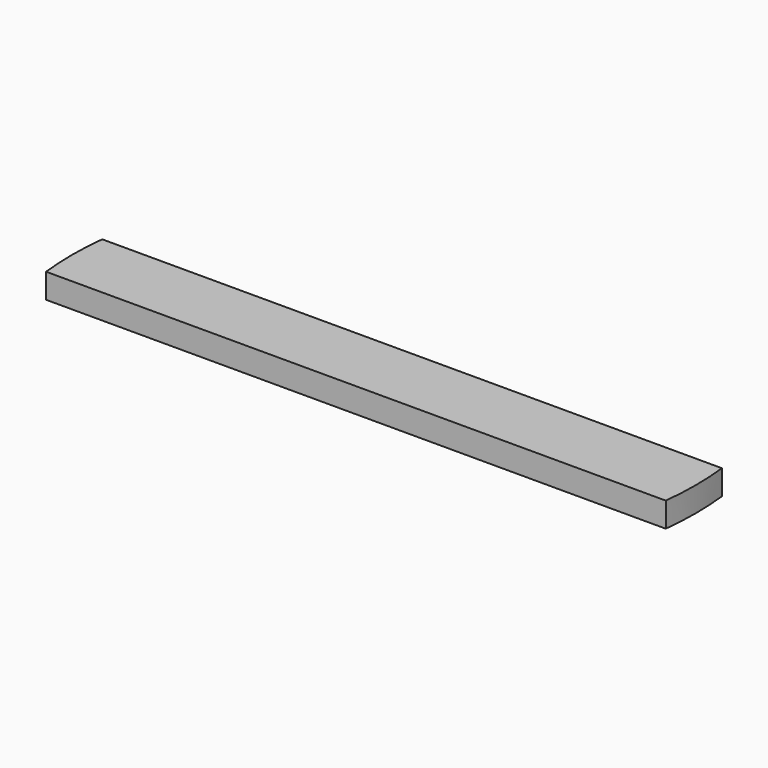
from build123d import *

# Parameters (mm, degrees)
F1_DEPTH = 6.35


with BuildPart() as f1:
    # F0 (on Top) → F1 (new body)
    with BuildSketch(Plane.XY):
        with BuildLine():
            Line((0, 9.010861), (-79.55692, 9.010861))
            ThreePointArc((-79.55692, 9.010861), (-80.065593, 0), (-79.55692, -9.010861))
            Line((-79.55692, -9.010861), (0, -9.010861))
            Line((0, -9.010861), (79.55692, -9.010861))
            ThreePointArc((79.55692, -9.010861), (80.065593, 0), (79.55692, 9.010861))
            Line((79.55692, 9.010861), (0, 9.010861))
        make_face()
    extrude(amount=F1_DEPTH)


solid = f1.part
